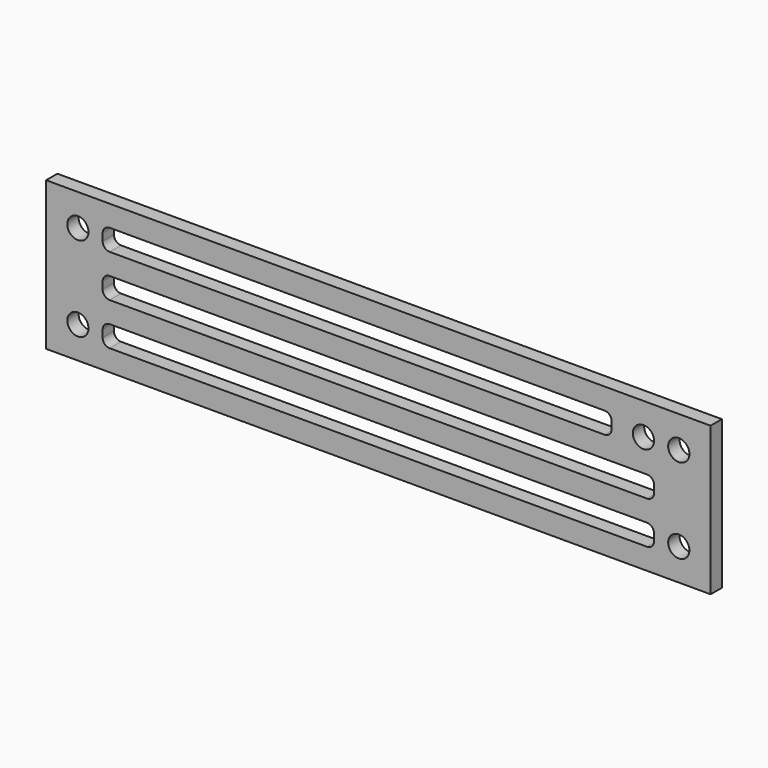
from build123d import *

# Parameters (mm, degrees)
F0_W     = 84
F0_H     = 21
F0_W_2   = 78
F0_H_2   = 3
F0_W_3   = 72
F0_R     = 1.5
F1_DEPTH = 2
F2_W     = 2
F2_H     = 21
F3_DEPTH = 5
F4_W     = 2
F4_H     = 21
F5_DEPTH = 5
F6_R     = 1.5
F7_DEPTH = 25
F8_R     = 1


with BuildPart() as f1:
    # F0 (on Front) → F1 (new body)
    with BuildSketch(Plane.XZ):
        Rectangle(F0_W, F0_H)
        with Locations((0, -6)):
            Rectangle(F0_W_2, F0_H_2, mode=Mode.SUBTRACT)
        with Locations((-3, 6)):
            Rectangle(F0_W_3, F0_H_2, mode=Mode.SUBTRACT)
        Rectangle(F0_W_2, F0_H_2, mode=Mode.SUBTRACT)
        with Locations((37.5, 6)):
            Circle(F0_R, mode=Mode.SUBTRACT)
    extrude(amount=F1_DEPTH)

    # F2 (on face) → F3 (join)
    with BuildSketch(Plane.YZ.offset(42)):
        with Locations((-1, 0)):
            Rectangle(F2_W, F2_H)
    extrude(amount=F3_DEPTH)

    # F4 (on face) → F5 (join)
    with BuildSketch(Plane(origin=(-42, 0, 0), x_dir=(0, -1, 0), z_dir=(-1, 0, 0))):
        with Locations((1, 0)):
            Rectangle(F4_W, F4_H)
    extrude(amount=F5_DEPTH)

    # F6 (on face) → F7 (cut)
    with BuildSketch(Plane.XZ.offset(2)):
        with Locations((-42.5, 6)):
            Circle(F6_R)
        with Locations((-42.5, -6)):
            Circle(F6_R)
        with Locations((42.5, 6)):
            Circle(F6_R)
        with Locations((42.5, -6)):
            Circle(F6_R)
    extrude(amount=-F7_DEPTH, mode=Mode.SUBTRACT)

    # F8
    f8_edges = [f1.edges().sort_by_distance(p)[0] for p in [
        (-39, -1, 7.5),
        (-39, -1, 1.5),
        (-39, -1, -4.5),
        (-39, -1, 4.5),
        (-39, -1, -1.5),
        (-39, -1, -7.5),
        (33, -1, 7.5),
        (39, -1, 1.5),
        (39, -1, -4.5),
        (39, -1, -7.5),
        (39, -1, -1.5),
        (33, -1, 4.5),
    ]]
    fillet(f8_edges, radius=F8_R)


solid = f1.part
